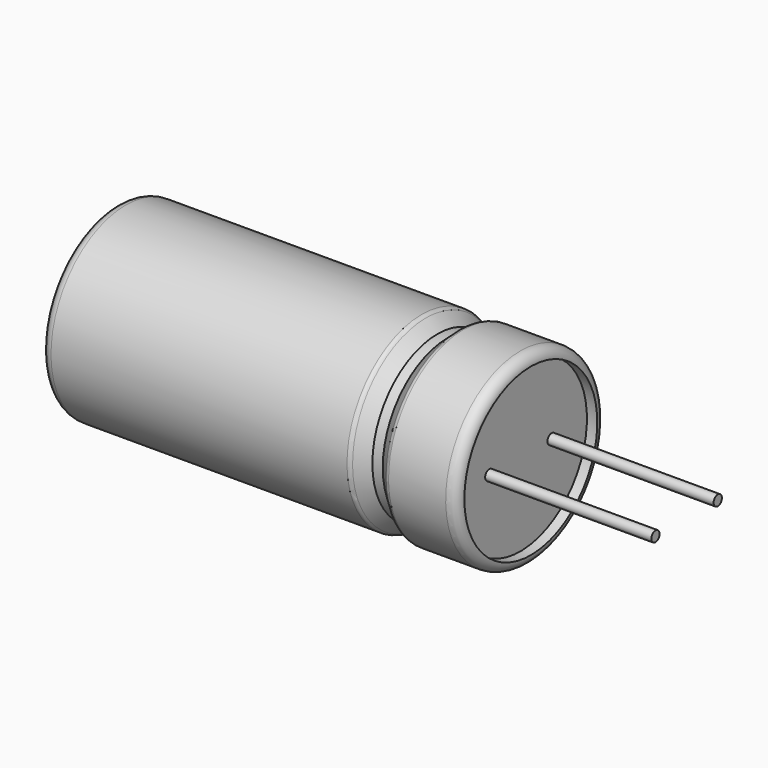
from build123d import *

# Parameters (mm, degrees)
FILLET_R            = 1
FILLET001_R         = 1
FILLET002_R         = 0.5
CHAMFER_SIZE        = 1
CHAMFER001_SIZE     = 1
CHAMFER001_FACE10_R = 8
POCKET_DEPTH        = 1
CYLINDER_R          = 0.5
CYLINDER_DEPTH      = 16
CYLINDER001_R       = 0.5
CYLINDER001_DEPTH   = 16


with BuildPart() as body:
    # Sketch → Revolution (revolve)
    with BuildSketch(Plane.XZ):
        Polygon((1, 0), (1, 9), (31, 9), (31, 7.820429), (34, 7.820429), (34, 9), (41, 9), (41, 0), (34, 0), (31, 0), align=None)
    revolve(axis=Axis((0, 0, 0), (1, 0, 0)))

    # Fillet
    fillet_edges = [body.edges().sort_by_distance(p)[0] for p in [
        (1, 0, -9),
    ]]
    fillet(fillet_edges, radius=FILLET_R)

    # Fillet001
    fillet001_edges = [body.edges().sort_by_distance(p)[0] for p in [
        (41, 0, -9),
    ]]
    fillet(fillet001_edges, radius=FILLET001_R)

    # Fillet002
    fillet002_edges = [body.edges().sort_by_distance(p)[0] for p in [
        (34, 0, -9),
        (31, 0, -9),
    ]]
    fillet(fillet002_edges, radius=FILLET002_R)

    # Chamfer
    chamfer_edges = [body.edges().sort_by_distance(p)[0] for p in [
        (31, 0, -7.820429),
    ]]
    chamfer(chamfer_edges, length=CHAMFER_SIZE)

    # Chamfer001
    chamfer001_edges = [body.edges().sort_by_distance(p)[0] for p in [
        (34, 0, -7.820429),
    ]]
    chamfer(chamfer001_edges, length=CHAMFER001_SIZE)

    # Chamfer001 Face10 → Pocket (cut)
    with BuildSketch(Plane(origin=(41, 0, 0), x_dir=(0, -1, 0), z_dir=(1, 0, 0))):
        Circle(CHAMFER001_FACE10_R)
    extrude(amount=-POCKET_DEPTH, mode=Mode.SUBTRACT)


with BuildPart() as body001:
    # Cylinder → Cylinder (join)
    with BuildSketch(Plane(origin=(40, 3.75, 0), x_dir=(0, 0, 1), z_dir=(1, 0, 0))):
        Circle(CYLINDER_R)
    extrude(amount=CYLINDER_DEPTH)


with BuildPart() as body002:
    # Cylinder001 → Cylinder001 (join)
    with BuildSketch(Plane(origin=(40, -3.75, 0), x_dir=(0, 0, 1), z_dir=(1, 0, 0))):
        Circle(CYLINDER001_R)
    extrude(amount=CYLINDER001_DEPTH)


solid = Compound([body.part, body001.part, body002.part])
